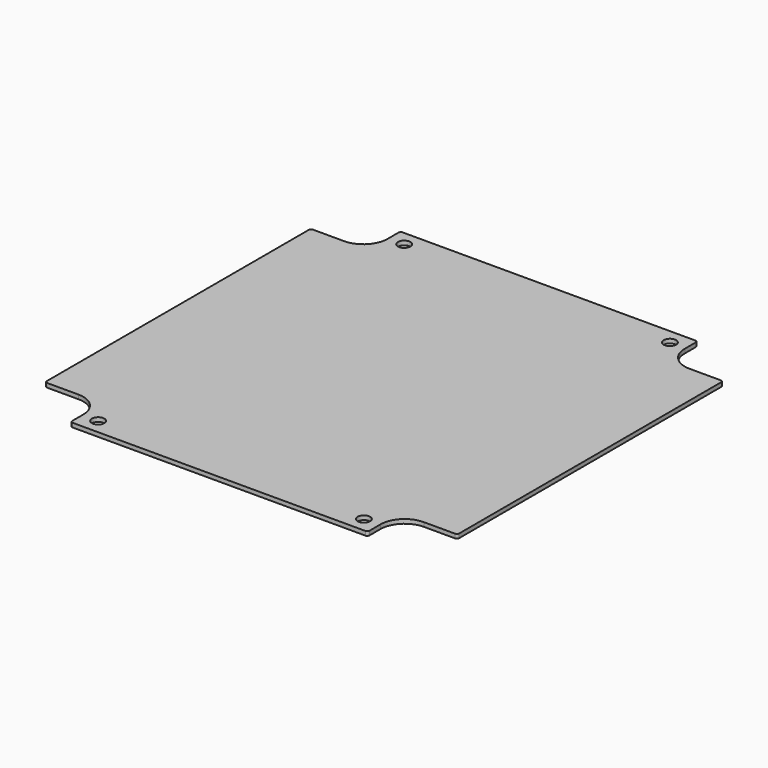
from build123d import *

# Parameters (mm, degrees)
F0_R     = 2.25
F1_DEPTH = 1.5


with BuildPart() as f1:
    # F0 (on Top) → F1 (new body)
    with BuildSketch(Plane.XY):
        with BuildLine():
            Line((52.9, 74.5), (-52.9, 74.5))
            ThreePointArc((-52.9, 74.5), (-53.465685, 74.265685), (-53.7, 73.7))
            Line((-53.7, 73.7), (-53.7, 68.7))
            ThreePointArc((-53.7, 68.7), (-56.248171, 62.548171), (-62.4, 60))
            Line((-62.4, 60), (-73.7, 60))
            ThreePointArc((-73.7, 60), (-74.265685, 59.765685), (-74.5, 59.2))
            Line((-74.5, 59.2), (-74.5, -59.2))
            ThreePointArc((-74.5, -59.2), (-74.265685, -59.765685), (-73.7, -60))
            Line((-73.7, -60), (-62.4, -60))
            ThreePointArc((-62.4, -60), (-56.248171, -62.548171), (-53.7, -68.7))
            Line((-53.7, -68.7), (-53.7, -73.7))
            ThreePointArc((-53.7, -73.7), (-53.465685, -74.265685), (-52.9, -74.5))
            Line((-52.9, -74.5), (52.9, -74.5))
            ThreePointArc((52.9, -74.5), (53.465685, -74.265685), (53.7, -73.7))
            Line((53.7, -73.7), (53.7, -68.7))
            ThreePointArc((53.7, -68.7), (56.248171, -62.548171), (62.4, -60))
            Line((62.4, -60), (73.7, -60))
            ThreePointArc((73.7, -60), (74.265685, -59.765685), (74.5, -59.2))
            Line((74.5, -59.2), (74.5, 59.2))
            ThreePointArc((74.5, 59.2), (74.265685, 59.765685), (73.7, 60))
            Line((73.7, 60), (62.4, 60))
            ThreePointArc((62.4, 60), (56.248171, 62.548171), (53.7, 68.7))
            Line((53.7, 68.7), (53.7, 73.7))
            ThreePointArc((53.7, 73.7), (53.465685, 74.265685), (52.9, 74.5))
        make_face()
        with Locations((-48, -69.1)):
            Circle(F0_R, mode=Mode.SUBTRACT)
        with Locations((48, -69.1)):
            Circle(F0_R, mode=Mode.SUBTRACT)
        with Locations((-48, 69.1)):
            Circle(F0_R, mode=Mode.SUBTRACT)
        with Locations((48, 69.1)):
            Circle(F0_R, mode=Mode.SUBTRACT)
    extrude(amount=F1_DEPTH)


solid = f1.part
